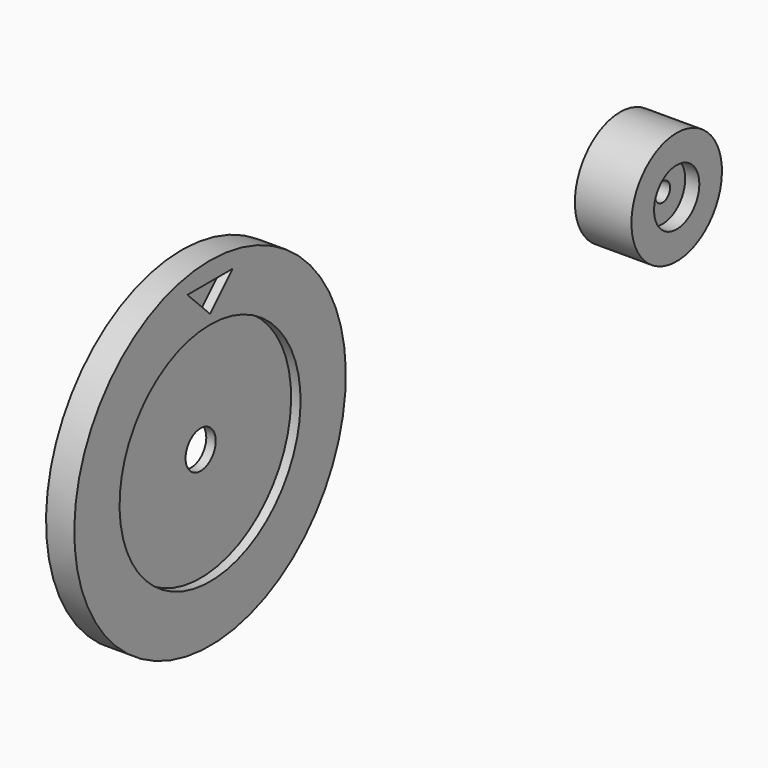
from build123d import *

# Parameters (mm, degrees)
F3_W     = 6.35
F3_H     = 63.5
F6_DEPTH = 6.35


with BuildPart() as f1:
    # F0 (on Front) → F1 (revolve)
    with BuildSketch(Plane.XZ):
        Polygon((-19.05, 19.05), (-9.525, 19.05), (-9.525, 6.35), (0, 6.35), (0, 38.1), (-19.05, 38.1), align=None)
        Polygon((0, 38.1), (0, 6.35), (9.525, 6.35), (9.525, 19.05), (19.05, 19.05), (19.05, 38.1), align=None)
    revolve(axis=Axis((0, 0, 0), (-1, 0, 0)))


with BuildPart() as f4:
    # F3 (on offset) → F4 (revolve)
    with BuildSketch(Plane.XZ.offset(381)):
        with Locations((0, 44.45)):
            Rectangle(F3_W, F3_H)
        Polygon((-3.175, 76.2), (3.175, 76.2), (9.525, 76.2), (9.525, 114.3), (-9.525, 114.3), (-9.525, 76.2), align=None)
    revolve(axis=Axis((0, -381, 0), (-1, 0, 0)))

    # F5 (on face) → F6 (cut)
    with BuildSketch(Plane.YZ.offset(9.525)):
        Polygon((-381.026096, 101.599996), (-400.076096, 101.599996), (-381.026096, 82.549996), align=None)
        Polygon((-381.026096, 101.599996), (-381.026096, 82.549996), (-361.976096, 101.599996), align=None)
    extrude(amount=-F6_DEPTH, mode=Mode.SUBTRACT)


solid = Compound([f1.part, f4.part])
